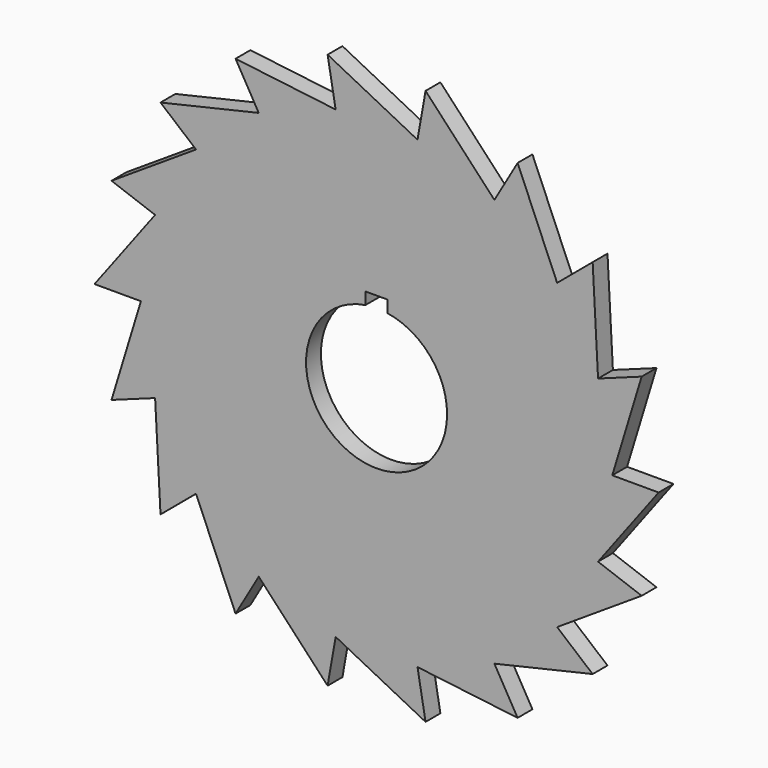
from build123d import *

# Parameters (mm, degrees)
F1_DEPTH = 5


with BuildPart() as f1:
    # F0 (on Front) → F1 (new body)
    with BuildSketch(Plane.XZ):
        Polygon((71.416639, 25.993531), (59.670481, 21.718279), (58.219378, 48.851858), (48.643822, 40.817013), (38, 65.817931), (31.75, 54.992613), (13.197262, 74.845389), (11.026659, 62.535292), (-13.197262, 74.845389), (-11.026659, 62.535292), (-38, 65.817931), (-31.75, 54.992613), (-58.219378, 48.851858), (-48.643822, 40.817013), (-71.416639, 25.993531), (-59.670481, 21.718279), (-76, 0), (-63.5, 0), (-71.416639, -25.993531), (-59.670481, -21.718279), (-58.219378, -48.851858), (-48.643822, -40.817013), (-38, -65.817931), (-31.75, -54.992613), (-13.197262, -74.845389), (-11.026659, -62.535292), (13.197262, -74.845389), (11.026659, -62.535292), (38, -65.817931), (31.75, -54.992613), (58.219378, -48.851858), (48.643822, -40.817013), (71.416639, -25.993531), (59.670481, -21.718279), (76, 0), (63.5, 0), align=None)
        with BuildLine():
            ThreePointArc((3, 18.761663), (14.456832, 12.328828), (19, 0))
            ThreePointArc((19, 0), (-12.328828, -14.456832), (-3, 18.761663))
            Line((-3, 18.761663), (-3, 22))
            Line((-3, 22), (3, 22))
            Line((3, 22), (3, 18.761663))
        make_face(mode=Mode.SUBTRACT)
    extrude(amount=F1_DEPTH)


solid = f1.part
